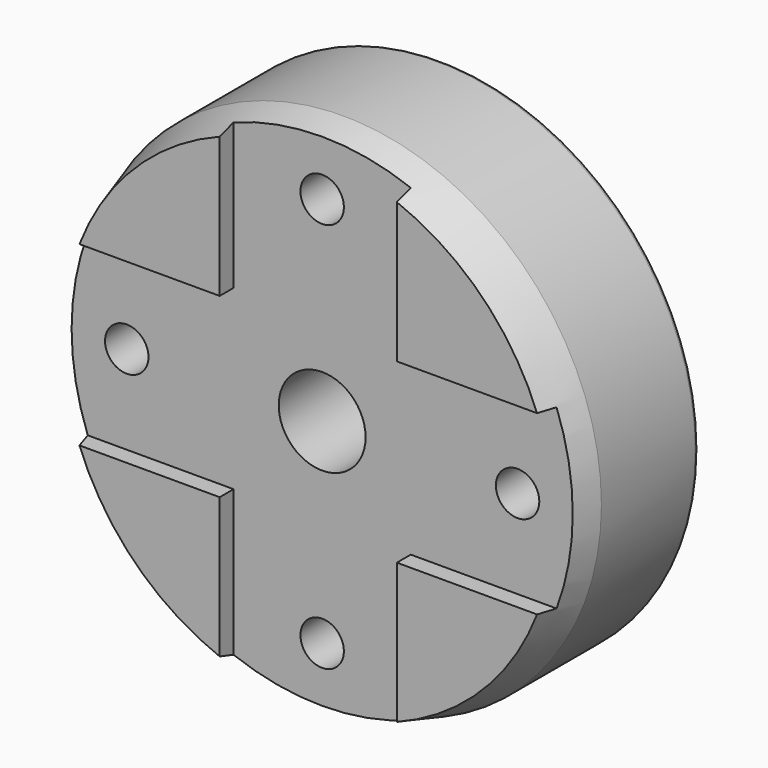
from build123d import *

# Parameters (mm, degrees)
SKETCH_R        = 29.75
PAD_DEPTH       = 19
POCKET_DEPTH    = 2
SKETCH002_R     = 5
HOLE_DEPTH      = 17.001
SKETCH003_R     = 2.5
HOLE001_DEPTH   = 17.001
POCKET001_DEPTH = 7
SKETCH005_R     = 7
POCKET002_DEPTH = 2
FILLET_R        = 0.5


with BuildPart() as part:
    # Sketch → Pad (new body)
    with BuildSketch(Plane.XZ):
        Circle(SKETCH_R)
    extrude(amount=PAD_DEPTH)

    # Sketch001 (on Face3 of Pad) → Pocket (cut)
    with BuildSketch(Plane.XZ.offset(19)):
        Polygon((-10.2, 27.94678), (-10.2, 10.2), (-27.94678, 10.2), (-38.800591, 2.809986), (-27.94678, -10.2), (-10.2, -10.2), (-10.2, -27.94678), (0.437611, -41.292454), (10.2, -27.94678), (10.2, -10.2), (27.94678, -10.2), (40.756752, -1.838068), (27.94678, 10.2), (10.2, 10.2), (10.2, 27.94678), (-0.319049, 40.318684), align=None)
    extrude(amount=-POCKET_DEPTH, mode=Mode.SUBTRACT)

    # Sketch002 (on Face3 of Pocket) → Hole (cut, through all)
    with BuildSketch(Plane.XZ.offset(17)):
        Circle(SKETCH002_R)
    extrude(amount=-HOLE_DEPTH, mode=Mode.SUBTRACT)

    # Sketch003 (on Face3 of Hole) → Hole001 (cut, through all)
    with BuildSketch(Plane.XZ.offset(17)):
        with Locations((0, 22.5)):
            Circle(SKETCH003_R)
        with Locations((22.5, 0)):
            Circle(SKETCH003_R)
        with Locations((0, -22.5)):
            Circle(SKETCH003_R)
        with Locations((-22.5, 0)):
            Circle(SKETCH003_R)
    extrude(amount=-HOLE001_DEPTH, mode=Mode.SUBTRACT)

    # Sketch004 (on Face2 of Hole001) → Pocket001 (cut)
    with BuildSketch(Plane(origin=(0, 0, 0), x_dir=(1, 0, 0), z_dir=(0, 1, 0))):
        with BuildLine():
            ThreePointArc((-21.944444, -4.96904), (-15.909903, -15.909903), (-4.96904, -21.944444))
            ThreePointArc((-3.5, -18.929286), (-4.494881, -20.310013), (-4.96904, -21.944444))
            Line((-3.5, -8.831761), (-3.5, -18.929286))
            ThreePointArc((-8.831761, -3.5), (-6.717514, -6.717514), (-3.5, -8.831761))
            Line((-18.929286, -3.5), (-8.831761, -3.5))
            ThreePointArc((-21.944444, -4.96904), (-20.310013, -4.494881), (-18.929286, -3.5))
        make_face()
        with BuildLine():
            ThreePointArc((8.831761, 3.5), (6.717514, 6.717514), (3.5, 8.831761))
            Line((3.5, 18.929286), (3.5, 8.831761))
            ThreePointArc((3.5, 18.929286), (4.494881, 20.310013), (4.96904, 21.944444))
            ThreePointArc((21.944444, 4.96904), (15.909903, 15.909903), (4.96904, 21.944444))
            ThreePointArc((21.944444, 4.96904), (20.310013, 4.494881), (18.929286, 3.5))
            Line((8.831761, 3.5), (18.929286, 3.5))
        make_face()
        with BuildLine():
            ThreePointArc((18.929286, -3.5), (20.310013, -4.494881), (21.944444, -4.96904))
            ThreePointArc((4.96904, -21.944444), (15.909903, -15.909903), (21.944444, -4.96904))
            ThreePointArc((4.96904, -21.944444), (4.494881, -20.310013), (3.5, -18.929286))
            Line((3.5, -8.831761), (3.5, -18.929286))
            ThreePointArc((3.5, -8.831761), (6.717514, -6.717514), (8.831761, -3.5))
            Line((8.831761, -3.5), (18.929286, -3.5))
        make_face()
        with BuildLine():
            Line((-3.5, 8.831761), (-3.5, 18.929286))
            ThreePointArc((-4.96904, 21.944444), (-4.494881, 20.310013), (-3.5, 18.929286))
            ThreePointArc((-4.96904, 21.944444), (-15.909903, 15.909903), (-21.944444, 4.96904))
            ThreePointArc((-18.929286, 3.5), (-20.310013, 4.494881), (-21.944444, 4.96904))
            Line((-18.929286, 3.5), (-8.831761, 3.5))
            ThreePointArc((-3.5, 8.831761), (-6.717514, 6.717514), (-8.831761, 3.5))
        make_face()
    extrude(amount=-POCKET001_DEPTH, mode=Mode.SUBTRACT)

    # Sketch005 (on Face2 of Pocket001) → Pocket002 (cut)
    with BuildSketch(Plane(origin=(0, 0, 0), x_dir=(1, 0, 0), z_dir=(0, 1, 0))):
        Circle(SKETCH005_R)
    extrude(amount=-POCKET002_DEPTH, mode=Mode.SUBTRACT)

    # Sketch006 (on DatumPlane) → Groove (revolve, cut)
    with BuildSketch(Plane(origin=(29.75, 0, 0), x_dir=(-1, 0, 0), z_dir=(0, 0, -1))):
        Polygon((0, -14), (1.5, -19), (0, -19), align=None)
    revolve(axis=Axis((0, 0, 0), (0, 1, 0)), mode=Mode.SUBTRACT)

    # Fillet
    fillet_edges = [part.edges().sort_by_distance(p)[0] for p in [
        (-29.75, 0, 0),
    ]]
    fillet(fillet_edges, radius=FILLET_R)


solid = part.part
